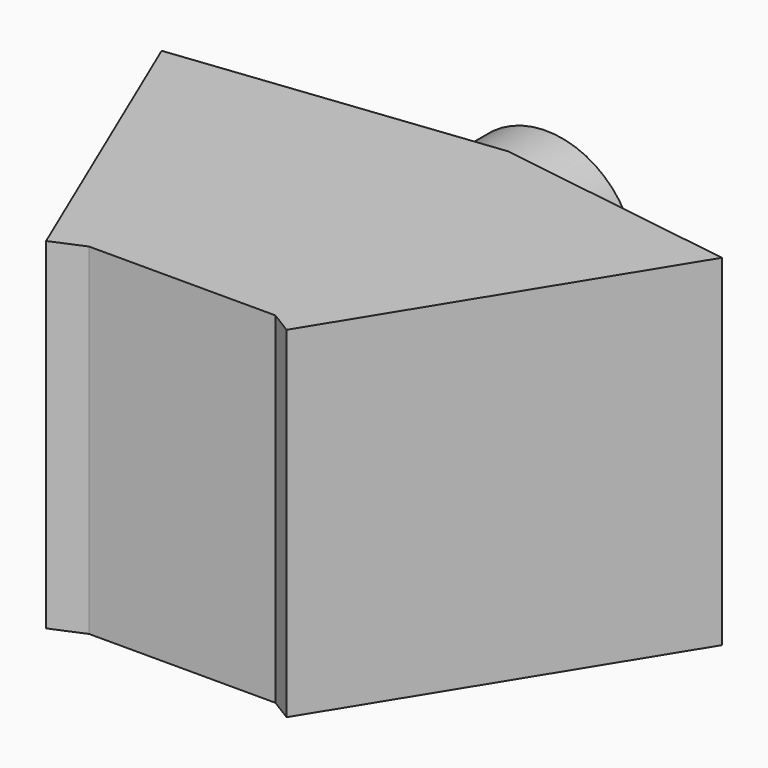
from build123d import *

# Parameters (mm, degrees)
F0_R      = 310.049843
F1_DEPTH  = 70
F1_FACE_R = 310.049843
F2_DEPTH  = 800
F4_DEPTH  = 1180


with BuildPart() as f1:
    # F0 (on Front) → F1 (new body)
    with BuildSketch(Plane.XZ):
        with Locations((-2880.003691, 680.537641)):
            Circle(F0_R)
    extrude(amount=F1_DEPTH)

    # F1_face (on face) → F2 (join)
    with BuildSketch(Plane(origin=(-2880.003691, -70, 680.537641), x_dir=(1, 0, 0), z_dir=(0, -1, 0))):
        Circle(F1_FACE_R)
        Circle(F1_FACE_R)
    extrude(amount=F2_DEPTH)

    # F3 (on Top) → F4 (join)
    with BuildSketch(Plane.XY):
        Polygon((-3756.287098, -567.878425), (-3304.86846, -1631.882787), (-3193.851384, -1584.782249), (-2549.353225, -1584.782249), (-2472.841501, -1631.882787), (-1817.84153, -567.878425), (-2658.719778, -442.70134), align=None)
    extrude(amount=F4_DEPTH)


solid = f1.part
